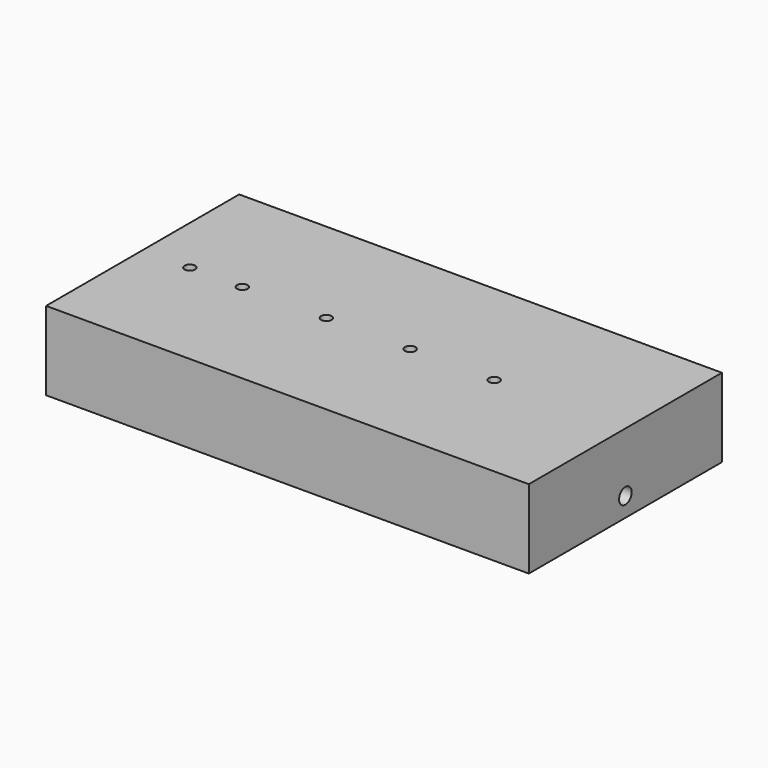
from build123d import *

# Parameters (mm, degrees)
F0_W     = 43
F0_H     = 19
F1_DEPTH = 2
F2_DEPTH = 5.5
F3_W     = 1
F3_H     = 1
F4_DEPTH = 41
F5_R     = 0.75
F6_DEPTH = 3
F7_R     = 0.5
F8_DEPTH = 2


with BuildPart() as f1:
    # F0 (on Top) → F1 (new body)
    with BuildSketch(Plane.XY):
        with Locations((17.1059944248, 8.7649840168)):
            Rectangle(F0_W, F0_H)
        Polygon((-4.3940055752, -0.7350159832), (-4.3940055752, -2.7350159832), (41.6059944248, -2.7350159832), (41.6059944248, 20.2649840168), (-4.3940055752, 20.2649840168), (-4.3940055752, 18.2649840168), (38.6059944248, 18.2649840168), (38.6059944248, -0.7350159832), align=None)
    extrude(amount=F1_DEPTH)

    # F0 (on Top) → F2 (join)
    with BuildSketch(Plane.XY):
        Polygon((-4.3940055752, -0.7350159832), (-4.3940055752, -2.7350159832), (41.6059944248, -2.7350159832), (41.6059944248, 20.2649840168), (-4.3940055752, 20.2649840168), (-4.3940055752, 18.2649840168), (38.6059944248, 18.2649840168), (38.6059944248, -0.7350159832), align=None)
    extrude(amount=-F2_DEPTH)

    # F3 (on face) → F4 (cut)
    with BuildSketch(Plane(origin=(-4.3940055752, 0, 0), x_dir=(0, -1, 0), z_dir=(-1, 0, 0))):
        with Locations((-18.7649840168, -3)):
            Rectangle(F3_W, F3_H)
        with Locations((1.2350159832, -3)):
            Rectangle(F3_W, F3_H)
    extrude(amount=-F4_DEPTH, mode=Mode.SUBTRACT)

    # F5 (on face) → F6 (cut, through all)
    with BuildSketch(Plane.YZ.offset(41.6059944248)):
        with Locations((8.7649840168, -3.65)):
            Circle(F5_R)
    extrude(amount=-F6_DEPTH, mode=Mode.SUBTRACT)

    # F7 (on face) → F8 (cut, through all)
    with BuildSketch(Plane.XY.offset(2)):
        with Locations((5.1059944248, 8.7649840168)):
            Circle(F7_R)
        with Locations((13.1059944248, 8.7649840168)):
            Circle(F7_R)
        with Locations((21.1059944248, 8.7649840168)):
            Circle(F7_R)
        with Locations((29.1059944248, 8.7649840168)):
            Circle(F7_R)
        with Locations((0.1059944248, 8.7649840168)):
            Circle(F7_R)
    extrude(amount=-F8_DEPTH, mode=Mode.SUBTRACT)


solid = f1.part
